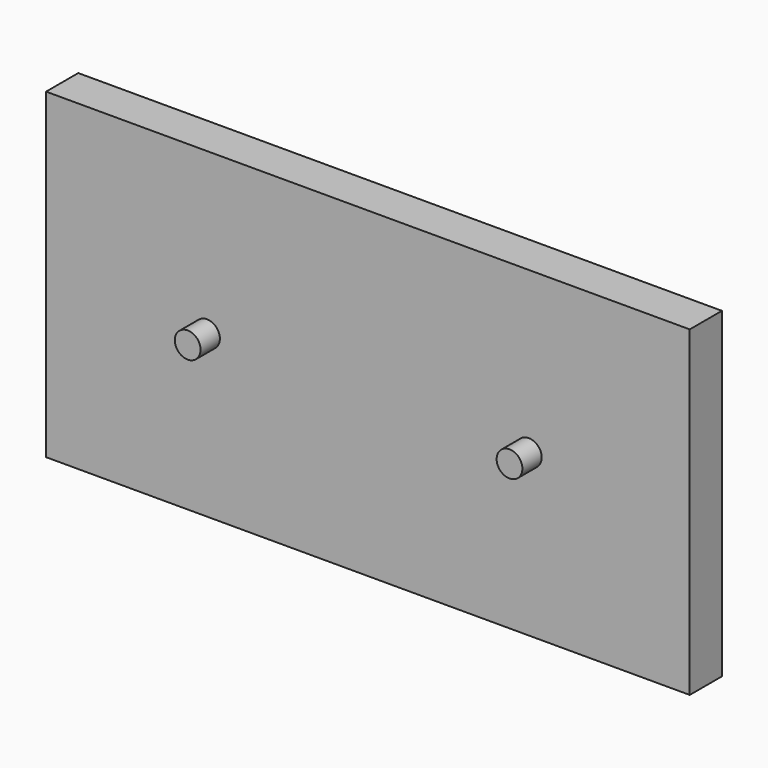
from build123d import *

# Parameters (mm, degrees)
F0_R     = 1.016
F0_W     = 50.8
F0_H     = 25.4
F1_DEPTH = 3.175
F2_DEPTH = 5.08


with BuildPart() as f1:
    # F0 (on Front) → F1 (new body)
    with BuildSketch(Plane.XZ):
        with Locations((-12.7, 12.7)):
            Circle(F0_R)
        with Locations((0, 12.7)):
            Rectangle(F0_W, F0_H)
        with Locations((-12.7, 12.7)):
            Circle(F0_R, mode=Mode.SUBTRACT)
        with Locations((12.7, 12.7)):
            Circle(F0_R, mode=Mode.SUBTRACT)
        with Locations((12.7, 12.7)):
            Circle(F0_R)
    extrude(amount=F1_DEPTH)

    # F0 (on Front) → F2 (join)
    with BuildSketch(Plane.XZ):
        with Locations((12.7, 12.7)):
            Circle(F0_R)
        with Locations((-12.7, 12.7)):
            Circle(F0_R)
    extrude(amount=F2_DEPTH)


solid = f1.part
